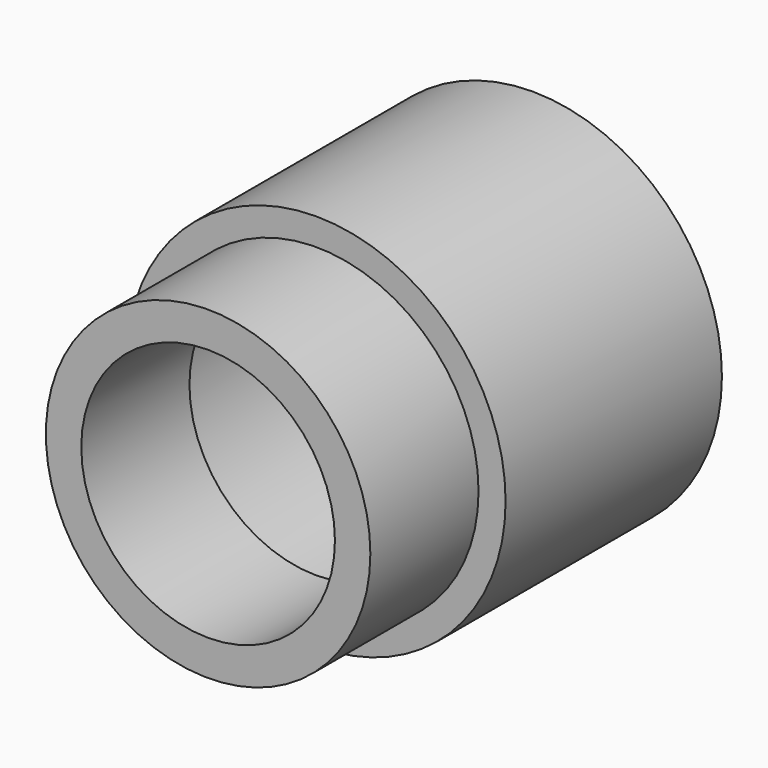
from build123d import *

# Parameters (mm, degrees)
F0_R     = 15.24
F0_R_2   = 11.9126
F1_DEPTH = 12.7
F2_R     = 17.78
F2_R_2   = 15.24
F3_DEPTH = 25.4


with BuildPart() as f1:
    # F0 (on Front) → F1 (new body)
    with BuildSketch(Plane.XZ):
        Circle(F0_R)
        Circle(F0_R_2, mode=Mode.SUBTRACT)
    extrude(amount=F1_DEPTH)


with BuildPart() as f3:
    # F2 (on Front) → F3 (new body)
    with BuildSketch(Plane.XZ):
        Circle(F2_R)
        Circle(F2_R_2, mode=Mode.SUBTRACT)
    extrude(amount=-F3_DEPTH)


solid = Compound([f1.part, f3.part])
